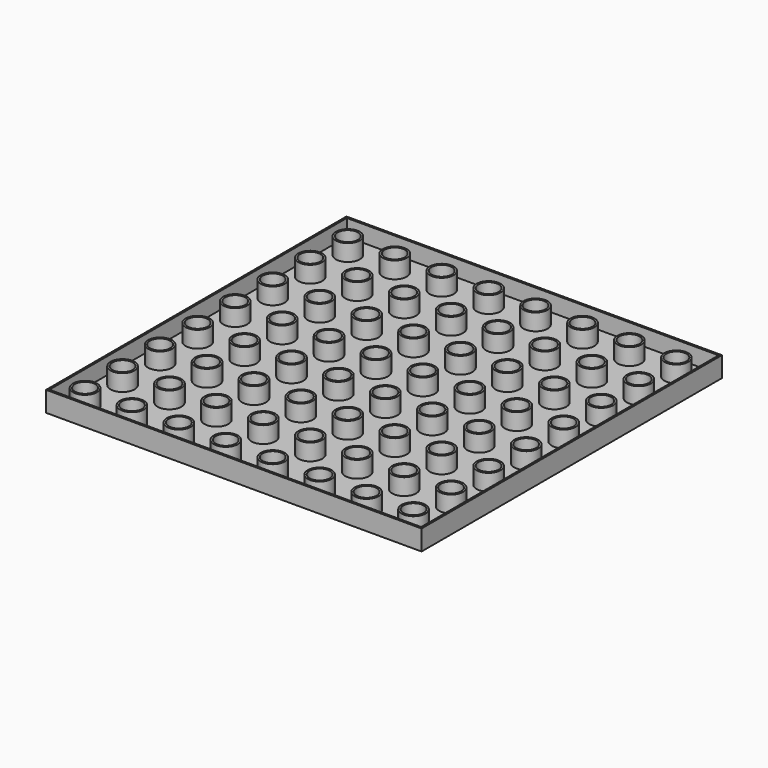
from build123d import *

# Parameters (mm, degrees)
F0_W      = 102
F0_H      = 102
F0_R      = 2.75
F1_DEPTH  = 5
F2_T      = -0.5
F1_FACE_W = 102
F1_FACE_H = 102
F1_FACE_R = 2.75
F3_DEPTH  = 0.5


with BuildPart() as f1:
    # F0 (on Top) → F1 (new body)
    with BuildSketch(Plane.XY):
        Rectangle(F0_W, F0_H)
        with Locations((-45.125, -45.125)):
            Circle(F0_R, mode=Mode.SUBTRACT)
        with Locations((-32.375, -45.125)):
            Circle(F0_R, mode=Mode.SUBTRACT)
        with Locations((-45.125, -32.375)):
            Circle(F0_R, mode=Mode.SUBTRACT)
        with Locations((-32.375, -32.375)):
            Circle(F0_R, mode=Mode.SUBTRACT)
        with Locations((-19.625, -45.125)):
            Circle(F0_R, mode=Mode.SUBTRACT)
        with Locations((-6.875, -45.125)):
            Circle(F0_R, mode=Mode.SUBTRACT)
        with Locations((-19.625, -32.375)):
            Circle(F0_R, mode=Mode.SUBTRACT)
        with Locations((-6.875, -32.375)):
            Circle(F0_R, mode=Mode.SUBTRACT)
        with Locations((-45.125, -19.625)):
            Circle(F0_R, mode=Mode.SUBTRACT)
        with Locations((-32.375, -19.625)):
            Circle(F0_R, mode=Mode.SUBTRACT)
        with Locations((-45.125, -6.875)):
            Circle(F0_R, mode=Mode.SUBTRACT)
        with Locations((-32.375, -6.875)):
            Circle(F0_R, mode=Mode.SUBTRACT)
        with Locations((-19.625, -19.625)):
            Circle(F0_R, mode=Mode.SUBTRACT)
        with Locations((-6.875, -19.625)):
            Circle(F0_R, mode=Mode.SUBTRACT)
        with Locations((-19.625, -6.875)):
            Circle(F0_R, mode=Mode.SUBTRACT)
        with Locations((-6.875, -6.875)):
            Circle(F0_R, mode=Mode.SUBTRACT)
        with Locations((5.875, -45.125)):
            Circle(F0_R, mode=Mode.SUBTRACT)
        with Locations((18.625, -45.125)):
            Circle(F0_R, mode=Mode.SUBTRACT)
        with Locations((5.875, -32.375)):
            Circle(F0_R, mode=Mode.SUBTRACT)
        with Locations((18.625, -32.375)):
            Circle(F0_R, mode=Mode.SUBTRACT)
        with Locations((31.375, -45.125)):
            Circle(F0_R, mode=Mode.SUBTRACT)
        with Locations((44.125, -45.125)):
            Circle(F0_R, mode=Mode.SUBTRACT)
        with Locations((31.375, -32.375)):
            Circle(F0_R, mode=Mode.SUBTRACT)
        with Locations((44.125, -32.375)):
            Circle(F0_R, mode=Mode.SUBTRACT)
        with Locations((5.875, -19.625)):
            Circle(F0_R, mode=Mode.SUBTRACT)
        with Locations((18.625, -19.625)):
            Circle(F0_R, mode=Mode.SUBTRACT)
        with Locations((5.875, -6.875)):
            Circle(F0_R, mode=Mode.SUBTRACT)
        with Locations((18.625, -6.875)):
            Circle(F0_R, mode=Mode.SUBTRACT)
        with Locations((31.375, -19.625)):
            Circle(F0_R, mode=Mode.SUBTRACT)
        with Locations((44.125, -19.625)):
            Circle(F0_R, mode=Mode.SUBTRACT)
        with Locations((31.375, -6.875)):
            Circle(F0_R, mode=Mode.SUBTRACT)
        with Locations((44.125, -6.875)):
            Circle(F0_R, mode=Mode.SUBTRACT)
        with Locations((-45.125, 5.875)):
            Circle(F0_R, mode=Mode.SUBTRACT)
        with Locations((-32.375, 5.875)):
            Circle(F0_R, mode=Mode.SUBTRACT)
        with Locations((-45.125, 18.625)):
            Circle(F0_R, mode=Mode.SUBTRACT)
        with Locations((-32.375, 18.625)):
            Circle(F0_R, mode=Mode.SUBTRACT)
        with Locations((-19.625, 5.875)):
            Circle(F0_R, mode=Mode.SUBTRACT)
        with Locations((-6.875, 5.875)):
            Circle(F0_R, mode=Mode.SUBTRACT)
        with Locations((-19.625, 18.625)):
            Circle(F0_R, mode=Mode.SUBTRACT)
        with Locations((-6.875, 18.625)):
            Circle(F0_R, mode=Mode.SUBTRACT)
        with Locations((-45.125, 31.375)):
            Circle(F0_R, mode=Mode.SUBTRACT)
        with Locations((-32.375, 31.375)):
            Circle(F0_R, mode=Mode.SUBTRACT)
        with Locations((-45.125, 44.125)):
            Circle(F0_R, mode=Mode.SUBTRACT)
        with Locations((-32.375, 44.125)):
            Circle(F0_R, mode=Mode.SUBTRACT)
        with Locations((-19.625, 31.375)):
            Circle(F0_R, mode=Mode.SUBTRACT)
        with Locations((-6.875, 31.375)):
            Circle(F0_R, mode=Mode.SUBTRACT)
        with Locations((-19.625, 44.125)):
            Circle(F0_R, mode=Mode.SUBTRACT)
        with Locations((-6.875, 44.125)):
            Circle(F0_R, mode=Mode.SUBTRACT)
        with Locations((5.875, 5.875)):
            Circle(F0_R, mode=Mode.SUBTRACT)
        with Locations((18.625, 5.875)):
            Circle(F0_R, mode=Mode.SUBTRACT)
        with Locations((5.875, 18.625)):
            Circle(F0_R, mode=Mode.SUBTRACT)
        with Locations((18.625, 18.625)):
            Circle(F0_R, mode=Mode.SUBTRACT)
        with Locations((31.375, 5.875)):
            Circle(F0_R, mode=Mode.SUBTRACT)
        with Locations((44.125, 5.875)):
            Circle(F0_R, mode=Mode.SUBTRACT)
        with Locations((31.375, 18.625)):
            Circle(F0_R, mode=Mode.SUBTRACT)
        with Locations((44.125, 18.625)):
            Circle(F0_R, mode=Mode.SUBTRACT)
        with Locations((5.875, 31.375)):
            Circle(F0_R, mode=Mode.SUBTRACT)
        with Locations((18.625, 31.375)):
            Circle(F0_R, mode=Mode.SUBTRACT)
        with Locations((5.875, 44.125)):
            Circle(F0_R, mode=Mode.SUBTRACT)
        with Locations((18.625, 44.125)):
            Circle(F0_R, mode=Mode.SUBTRACT)
        with Locations((31.375, 31.375)):
            Circle(F0_R, mode=Mode.SUBTRACT)
        with Locations((44.125, 31.375)):
            Circle(F0_R, mode=Mode.SUBTRACT)
        with Locations((31.375, 44.125)):
            Circle(F0_R, mode=Mode.SUBTRACT)
        with Locations((44.125, 44.125)):
            Circle(F0_R, mode=Mode.SUBTRACT)
    extrude(amount=F1_DEPTH)

    # F2
    f2_openings = [f1.faces().sort_by_distance(p)[0] for p in [
        (0.085582, 0.085582, 5),
    ]]
    offset(amount=F2_T, openings=f2_openings)

    # F1_face (on face) → F3 (join)
    with BuildSketch(Plane(origin=(0.085582, 0.085582, 0), x_dir=(1, 0, 0), z_dir=(0, 0, -1))):
        with Locations((-0.085582, 0.085582)):
            Rectangle(F1_FACE_W, F1_FACE_H)
        with Locations((-45.210582, 45.210582)):
            Circle(F1_FACE_R, mode=Mode.SUBTRACT)
        with Locations((-32.460582, 45.210582)):
            Circle(F1_FACE_R, mode=Mode.SUBTRACT)
        with Locations((-45.210582, 32.460582)):
            Circle(F1_FACE_R, mode=Mode.SUBTRACT)
        with Locations((-32.460582, 32.460582)):
            Circle(F1_FACE_R, mode=Mode.SUBTRACT)
        with Locations((-19.710582, 45.210582)):
            Circle(F1_FACE_R, mode=Mode.SUBTRACT)
        with Locations((-6.960582, 45.210582)):
            Circle(F1_FACE_R, mode=Mode.SUBTRACT)
        with Locations((-19.710582, 32.460582)):
            Circle(F1_FACE_R, mode=Mode.SUBTRACT)
        with Locations((-6.960582, 32.460582)):
            Circle(F1_FACE_R, mode=Mode.SUBTRACT)
        with Locations((-45.210582, 19.710582)):
            Circle(F1_FACE_R, mode=Mode.SUBTRACT)
        with Locations((-32.460582, 19.710582)):
            Circle(F1_FACE_R, mode=Mode.SUBTRACT)
        with Locations((-45.210582, 6.960582)):
            Circle(F1_FACE_R, mode=Mode.SUBTRACT)
        with Locations((-32.460582, 6.960582)):
            Circle(F1_FACE_R, mode=Mode.SUBTRACT)
        with Locations((-19.710582, 19.710582)):
            Circle(F1_FACE_R, mode=Mode.SUBTRACT)
        with Locations((-6.960582, 19.710582)):
            Circle(F1_FACE_R, mode=Mode.SUBTRACT)
        with Locations((-19.710582, 6.960582)):
            Circle(F1_FACE_R, mode=Mode.SUBTRACT)
        with Locations((-6.960582, 6.960582)):
            Circle(F1_FACE_R, mode=Mode.SUBTRACT)
        with Locations((5.789418, 45.210582)):
            Circle(F1_FACE_R, mode=Mode.SUBTRACT)
        with Locations((18.539418, 45.210582)):
            Circle(F1_FACE_R, mode=Mode.SUBTRACT)
        with Locations((5.789418, 32.460582)):
            Circle(F1_FACE_R, mode=Mode.SUBTRACT)
        with Locations((18.539418, 32.460582)):
            Circle(F1_FACE_R, mode=Mode.SUBTRACT)
        with Locations((31.289418, 45.210582)):
            Circle(F1_FACE_R, mode=Mode.SUBTRACT)
        with Locations((44.039418, 45.210582)):
            Circle(F1_FACE_R, mode=Mode.SUBTRACT)
        with Locations((31.289418, 32.460582)):
            Circle(F1_FACE_R, mode=Mode.SUBTRACT)
        with Locations((44.039418, 32.460582)):
            Circle(F1_FACE_R, mode=Mode.SUBTRACT)
        with Locations((5.789418, 19.710582)):
            Circle(F1_FACE_R, mode=Mode.SUBTRACT)
        with Locations((18.539418, 19.710582)):
            Circle(F1_FACE_R, mode=Mode.SUBTRACT)
        with Locations((5.789418, 6.960582)):
            Circle(F1_FACE_R, mode=Mode.SUBTRACT)
        with Locations((18.539418, 6.960582)):
            Circle(F1_FACE_R, mode=Mode.SUBTRACT)
        with Locations((31.289418, 19.710582)):
            Circle(F1_FACE_R, mode=Mode.SUBTRACT)
        with Locations((44.039418, 19.710582)):
            Circle(F1_FACE_R, mode=Mode.SUBTRACT)
        with Locations((31.289418, 6.960582)):
            Circle(F1_FACE_R, mode=Mode.SUBTRACT)
        with Locations((44.039418, 6.960582)):
            Circle(F1_FACE_R, mode=Mode.SUBTRACT)
        with Locations((-45.210582, -5.789418)):
            Circle(F1_FACE_R, mode=Mode.SUBTRACT)
        with Locations((-32.460582, -5.789418)):
            Circle(F1_FACE_R, mode=Mode.SUBTRACT)
        with Locations((-45.210582, -18.539418)):
            Circle(F1_FACE_R, mode=Mode.SUBTRACT)
        with Locations((-32.460582, -18.539418)):
            Circle(F1_FACE_R, mode=Mode.SUBTRACT)
        with Locations((-19.710582, -5.789418)):
            Circle(F1_FACE_R, mode=Mode.SUBTRACT)
        with Locations((-6.960582, -5.789418)):
            Circle(F1_FACE_R, mode=Mode.SUBTRACT)
        with Locations((-19.710582, -18.539418)):
            Circle(F1_FACE_R, mode=Mode.SUBTRACT)
        with Locations((-6.960582, -18.539418)):
            Circle(F1_FACE_R, mode=Mode.SUBTRACT)
        with Locations((-45.210582, -31.289418)):
            Circle(F1_FACE_R, mode=Mode.SUBTRACT)
        with Locations((-32.460582, -31.289418)):
            Circle(F1_FACE_R, mode=Mode.SUBTRACT)
        with Locations((-45.210582, -44.039418)):
            Circle(F1_FACE_R, mode=Mode.SUBTRACT)
        with Locations((-32.460582, -44.039418)):
            Circle(F1_FACE_R, mode=Mode.SUBTRACT)
        with Locations((-19.710582, -31.289418)):
            Circle(F1_FACE_R, mode=Mode.SUBTRACT)
        with Locations((-6.960582, -31.289418)):
            Circle(F1_FACE_R, mode=Mode.SUBTRACT)
        with Locations((-19.710582, -44.039418)):
            Circle(F1_FACE_R, mode=Mode.SUBTRACT)
        with Locations((-6.960582, -44.039418)):
            Circle(F1_FACE_R, mode=Mode.SUBTRACT)
        with Locations((5.789418, -5.789418)):
            Circle(F1_FACE_R, mode=Mode.SUBTRACT)
        with Locations((18.539418, -5.789418)):
            Circle(F1_FACE_R, mode=Mode.SUBTRACT)
        with Locations((5.789418, -18.539418)):
            Circle(F1_FACE_R, mode=Mode.SUBTRACT)
        with Locations((18.539418, -18.539418)):
            Circle(F1_FACE_R, mode=Mode.SUBTRACT)
        with Locations((31.289418, -5.789418)):
            Circle(F1_FACE_R, mode=Mode.SUBTRACT)
        with Locations((44.039418, -5.789418)):
            Circle(F1_FACE_R, mode=Mode.SUBTRACT)
        with Locations((31.289418, -18.539418)):
            Circle(F1_FACE_R, mode=Mode.SUBTRACT)
        with Locations((44.039418, -18.539418)):
            Circle(F1_FACE_R, mode=Mode.SUBTRACT)
        with Locations((5.789418, -31.289418)):
            Circle(F1_FACE_R, mode=Mode.SUBTRACT)
        with Locations((18.539418, -31.289418)):
            Circle(F1_FACE_R, mode=Mode.SUBTRACT)
        with Locations((5.789418, -44.039418)):
            Circle(F1_FACE_R, mode=Mode.SUBTRACT)
        with Locations((18.539418, -44.039418)):
            Circle(F1_FACE_R, mode=Mode.SUBTRACT)
        with Locations((31.289418, -31.289418)):
            Circle(F1_FACE_R, mode=Mode.SUBTRACT)
        with Locations((44.039418, -31.289418)):
            Circle(F1_FACE_R, mode=Mode.SUBTRACT)
        with Locations((31.289418, -44.039418)):
            Circle(F1_FACE_R, mode=Mode.SUBTRACT)
        with Locations((44.039418, -44.039418)):
            Circle(F1_FACE_R, mode=Mode.SUBTRACT)
    extrude(amount=F3_DEPTH)


solid = f1.part
